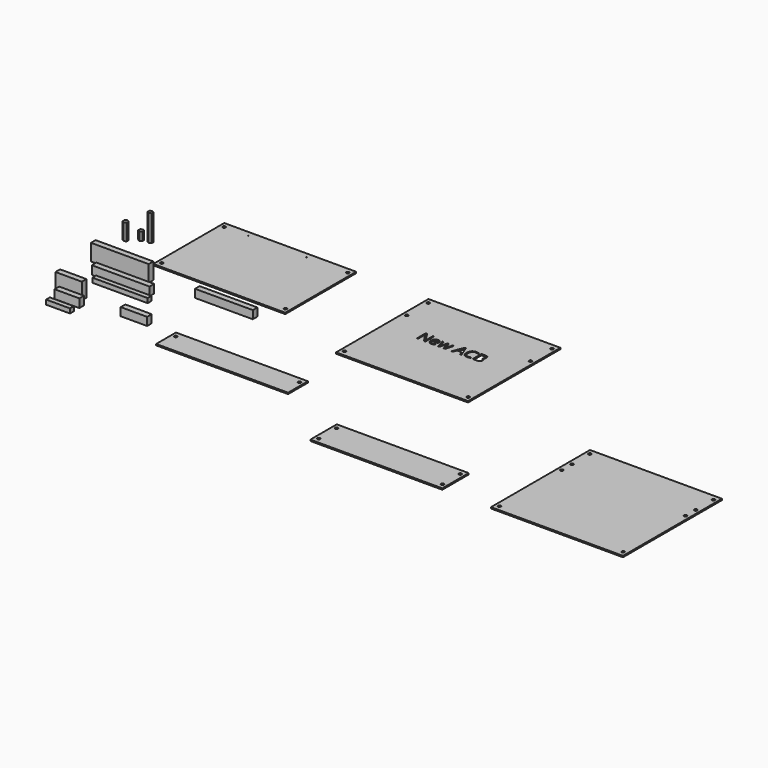
from build123d import *

# Parameters (mm, degrees)
F0_W      = 160
F0_H      = 107.5
F0_R      = 0.5
F1_DEPTH  = 1.6
F2_D      = 3.5
F3_W      = 70
F3_H      = 7
F4_DEPTH  = 20
F5_W      = 70
F5_H      = 7
F6_DEPTH  = 10.4
F7_W      = 67
F7_H      = 5.7
F8_DEPTH  = 5.5
F9_W      = 70
F9_H      = 7
F10_DEPTH = 9.8
F11_W     = 32
F11_H     = 7
F12_DEPTH = 20
F13_W     = 30
F13_H     = 7
F14_DEPTH = 10.4
F15_W     = 29
F15_H     = 5.7
F16_DEPTH = 5.5
F17_W     = 32
F17_H     = 7
F18_DEPTH = 9.8
F20_DEPTH = 20
F21_W     = 160
F21_H     = 30
F21_R     = 1.75
F22_DEPTH = 1.6
F23_W     = 160
F23_H     = 140
F23_R     = 1.75
F24_DEPTH = 1.6
F26_DEPTH = 10
F28_DEPTH = 32
F29_W     = 160
F29_H     = 40
F29_R     = 1.75
F31_DEPTH = 1.6
F30_W     = 160
F30_H     = 150
F30_R     = 1.75
F32_DEPTH = 1.6


with BuildPart() as f1:
    # F0 (on Top) → F1 (new body)
    with BuildSketch(Plane.XY):
        with Locations((80, 53.75)):
            Rectangle(F0_W, F0_H)
        with Locations((34.275, 101)):
            Circle(F0_R, mode=Mode.SUBTRACT)
        with Locations((104.775, 101)):
            Circle(F0_R, mode=Mode.SUBTRACT)
    extrude(amount=F1_DEPTH)

    # F2 (through all)
    with Locations(Plane(origin=(0, 0, 0), x_dir=(1, 0, 0), z_dir=(0, 0, -1))):
        with Locations((5, -101), (155, -101), (155, -6.5), (5, -6.5)):
            Hole(F2_D / 2)


with BuildPart() as f4:
    # F3 (on Top) → F4 (new body)
    with BuildSketch(Plane.XY):
        with Locations((-16.0939775687, -27.1400371566)):
            Rectangle(F3_W, F3_H)
    extrude(amount=F4_DEPTH)


with BuildPart() as f6:
    # F5 (on Top) → F6 (new body)
    with BuildSketch(Plane.XY):
        with Locations((1.7421445296, -48.1625366956)):
            Rectangle(F5_W, F5_H)
    extrude(amount=F6_DEPTH)


with BuildPart() as f8:
    # F7 (on Top) → F8 (new body)
    with BuildSketch(Plane.XY):
        with Locations((10.7092835508, -61.0287673771)):
            Rectangle(F7_W, F7_H)
    extrude(amount=F8_DEPTH)


with BuildPart() as f10:
    # F9 (on Top) → F10 (new body)
    with BuildSketch(Plane.XY):
        with Locations((107.5625554097, -23.9234799519)):
            Rectangle(F9_W, F9_H)
    extrude(amount=F10_DEPTH)


with BuildPart() as f12:
    # F11 (on Top) → F12 (new body)
    with BuildSketch(Plane.XY):
        with Locations((-23.9963108364, -94.9174948037)):
            Rectangle(F11_W, F11_H)
    extrude(amount=F12_DEPTH)


with BuildPart() as f14:
    # F13 (on Top) → F14 (new body)
    with BuildSketch(Plane.XY):
        with Locations((-15, -108.6432483196)):
            Rectangle(F13_W, F13_H)
    extrude(amount=F14_DEPTH)


with BuildPart() as f16:
    # F15 (on Top) → F16 (new body)
    with BuildSketch(Plane.XY):
        with Locations((-14.5, -123.4859487057)):
            Rectangle(F15_W, F15_H)
    extrude(amount=F16_DEPTH)


with BuildPart() as f18:
    # F17 (on Top) → F18 (new body)
    with BuildSketch(Plane.XY):
        with Locations((57.0341287478, -97.2132757306)):
            Rectangle(F17_W, F17_H)
    extrude(amount=F18_DEPTH)


with BuildPart() as f20:
    # F19 (on Top) → F20 (new body)
    with BuildSketch(Plane.XY):
        Polygon((-50.3638529029, 25.6252197895), (-52.815556545, 27.149189141), (-55.3612045391, 25.7879361801), (-55.455148891, 22.9027138677), (-53.0034452489, 21.3787445162), (-50.4577972548, 22.7399974771), align=None)
    extrude(amount=F20_DEPTH)


with BuildPart() as f22:
    # F21 (on Top) → F22 (new body)
    with BuildSketch(Plane.XY):
        with Locations((184.6012100577, -111.4463090748)):
            Rectangle(F21_W, F21_H)
        with Locations((109.6012100577, -102.9463090748)):
            Circle(F21_R, mode=Mode.SUBTRACT)
        with Locations((259.6012100577, -102.9463090748)):
            Circle(F21_R, mode=Mode.SUBTRACT)
    extrude(amount=F22_DEPTH)


with BuildPart() as f24:
    # F23 (on Top) → F24 (new body)
    with BuildSketch(Plane.XY):
        with Locations((328.4113079536, 36.5902520716)):
            Rectangle(F23_W, F23_H)
        with Locations((253.4113079536, -26.9097479284)):
            Circle(F23_R, mode=Mode.SUBTRACT)
        with Locations((403.4113079536, -26.9097479284)):
            Circle(F23_R, mode=Mode.SUBTRACT)
        with Locations((253.4113079536, 67.5902520716)):
            Circle(F23_R, mode=Mode.SUBTRACT)
        with BuildLine():
            Line((300.6859295811, 49.9915973276), (300.6859295811, 36.6290178146))
            Line((300.6859295811, 36.6290178146), (298.9136110902, 36.6290178146))
            Line((298.9136110902, 36.6290178146), (291.6108400147, 47.8420031183))
            Line((291.6108400147, 47.8420031183), (291.5377245654, 47.8420031183))
            add(Edge.make_bspline(
                [(291.5377245654, 47.8420031183), (291.683955464, 45.8678859874), (291.683955464, 44.2242506873)],
                knots=[0, 0, 0, 1, 1, 1], degree=2))
            Line((291.683955464, 44.2242506873), (291.683955464, 36.6290178146))
            Line((291.683955464, 36.6290178146), (290.2479680399, 36.6290178146))
            Line((290.2479680399, 36.6290178146), (290.2479680399, 49.9915973276))
            Line((290.2479680399, 49.9915973276), (292.0027388229, 49.9915973276))
            Line((292.0027388229, 49.9915973276), (299.2879621906, 38.8224812934))
            Line((299.2879621906, 38.8224812934), (299.3610776399, 38.8224812934))
            add(Edge.make_bspline(
                [(299.3610776399, 38.8224812934), (299.3435299321, 39.068149203), (299.2791883367, 40.4076242341)],
                knots=[0, 0, 0, 1, 1, 1], degree=2))
            add(Edge.make_bspline(
                [(299.2791883367, 40.4076242341), (299.2148467413, 41.7470992652), (299.2323944492, 42.3232490056)],
                knots=[0, 0, 0, 1, 1, 1], degree=2))
            Line((299.2323944492, 42.3232490056), (299.2323944492, 49.9915973276))
            Line((299.2323944492, 49.9915973276), (300.6859295811, 49.9915973276))
        make_face(mode=Mode.SUBTRACT)
        with BuildLine():
            add(Edge.make_bspline(
                [(310.0944255963, 36.5968470169), (309.3778941933, 36.4447668823), (308.363051757, 36.4447668823)],
                knots=[0, 0, 0, 1, 1, 1], degree=2))
            add(Edge.make_bspline(
                [(308.363051757, 36.4447668823), (306.1432667165, 36.4447668823), (304.8578971179, 37.7988650033)],
                knots=[0, 0, 0, 1, 1, 1], degree=2))
            add(Edge.make_bspline(
                [(304.8578971179, 37.7988650033), (303.5725275193, 39.1529631242), (303.5725275193, 41.554074479)],
                knots=[0, 0, 0, 1, 1, 1], degree=2))
            add(Edge.make_bspline(
                [(303.5725275193, 41.554074479), (303.5725275193, 43.9785827776), (304.7657716518, 45.4043340389)],
                knots=[0, 0, 0, 1, 1, 1], degree=2))
            add(Edge.make_bspline(
                [(304.7657716518, 45.4043340389), (305.9590157842, 46.8300853001), (307.9711529488, 46.8300853001)],
                knots=[0, 0, 0, 1, 1, 1], degree=2))
            add(Edge.make_bspline(
                [(307.9711529488, 46.8300853001), (309.8516823047, 46.8300853001), (310.9484140441, 45.5915095891)],
                knots=[0, 0, 0, 1, 1, 1], degree=2))
            add(Edge.make_bspline(
                [(310.9484140441, 45.5915095891), (312.0451457835, 44.352933878), (312.0451457835, 42.3232490056)],
                knots=[0, 0, 0, 1, 1, 1], degree=2))
            Line((312.0451457835, 42.3232490056), (312.0451457835, 41.3639743109))
            Line((312.0451457835, 41.3639743109), (305.1459719881, 41.3639743109))
            add(Edge.make_bspline(
                [(305.1459719881, 41.3639743109), (305.1927658756, 39.6004296739), (306.0379804695, 38.6864865577)],
                knots=[0, 0, 0, 1, 1, 1], degree=2))
            add(Edge.make_bspline(
                [(306.0379804695, 38.6864865577), (306.8831950633, 37.7725434415), (308.4186194985, 37.7725434415)],
                knots=[0, 0, 0, 1, 1, 1], degree=2))
            add(Edge.make_bspline(
                [(308.4186194985, 37.7725434415), (310.0359332369, 37.7725434415), (311.6152269417, 38.448130193)],
                knots=[0, 0, 0, 1, 1, 1], degree=2))
            Line((311.6152269417, 38.448130193), (311.6152269417, 37.0940320721))
            add(Edge.make_bspline(
                [(311.6152269417, 37.0940320721), (310.8109569994, 36.7489271514), (310.0944255963, 36.5968470169)],
                knots=[0, 0, 0, 1, 1, 1], degree=2))
        make_face(mode=Mode.SUBTRACT)
        with BuildLine():
            Line((324.6151538262, 36.6290178146), (322.8135891556, 36.6290178146))
            Line((322.8135891556, 36.6290178146), (320.9769290693, 42.5045753199))
            add(Edge.make_bspline(
                [(320.9769290693, 42.5045753199), (320.801451991, 43.0456296446), (320.3276638796, 44.9554051802)],
                knots=[0, 0, 0, 1, 1, 1], degree=2))
            Line((320.3276638796, 44.9554051802), (320.2545484303, 44.9554051802))
            add(Edge.make_bspline(
                [(320.2545484303, 44.9554051802), (319.8889711838, 43.3556391496), (319.6140570945, 42.487027612)],
                knots=[0, 0, 0, 1, 1, 1], degree=2))
            Line((319.6140570945, 42.487027612), (317.7218292667, 36.6290178146))
            Line((317.7218292667, 36.6290178146), (315.9670584837, 36.6290178146))
            Line((315.9670584837, 36.6290178146), (313.235465298, 46.6458343679))
            Line((313.235465298, 46.6458343679), (314.8264574747, 46.6458343679))
            add(Edge.make_bspline(
                [(314.8264574747, 46.6458343679), (315.7945060233, 42.8701525663), (316.3019272414, 40.8960354354)],
                knots=[0, 0, 0, 1, 1, 1], degree=2))
            add(Edge.make_bspline(
                [(316.3019272414, 40.8960354354), (316.8093484595, 38.9219183044), (316.8824639088, 38.237557699)],
                knots=[0, 0, 0, 1, 1, 1], degree=2))
            Line((316.8824639088, 38.237557699), (316.9555793581, 38.237557699))
            add(Edge.make_bspline(
                [(316.9555793581, 38.237557699), (317.0550163692, 38.758139698), (317.278749644, 39.585806584)],
                knots=[0, 0, 0, 1, 1, 1], degree=2))
            add(Edge.make_bspline(
                [(317.278749644, 39.585806584), (317.5024829188, 40.41347347), (317.6691861432, 40.8960354354)],
                knots=[0, 0, 0, 1, 1, 1], degree=2))
            Line((317.6691861432, 40.8960354354), (319.5058462295, 46.6458343679))
            Line((319.5058462295, 46.6458343679), (321.1494815297, 46.6458343679))
            Line((321.1494815297, 46.6458343679), (322.9422723464, 40.8960354354))
            add(Edge.make_bspline(
                [(322.9422723464, 40.8960354354), (323.4540804914, 39.3255155845), (323.6354068057, 38.2551054069)],
                knots=[0, 0, 0, 1, 1, 1], degree=2))
            Line((323.6354068057, 38.2551054069), (323.708522255, 38.2551054069))
            add(Edge.make_bspline(
                [(323.708522255, 38.2551054069), (323.7465422886, 38.5855872377), (323.9059339681, 39.2714101521)],
                knots=[0, 0, 0, 1, 1, 1], degree=2))
            add(Edge.make_bspline(
                [(323.9059339681, 39.2714101521), (324.0653256475, 39.9572330664), (325.8113225767, 46.6458343679)],
                knots=[0, 0, 0, 1, 1, 1], degree=2))
            Line((325.8113225767, 46.6458343679), (327.3818424275, 46.6458343679))
            Line((327.3818424275, 46.6458343679), (324.6151538262, 36.6290178146))
        make_face(mode=Mode.SUBTRACT)
        with Locations((253.4113079536, 100.0902520716)):
            Circle(F23_R, mode=Mode.SUBTRACT)
        Polygon((344.2919835403, 36.6290178146), (342.6834436559, 36.6290178146), (341.0193360299, 40.8784877275), (335.6643605236, 40.8784877275), (334.0207252234, 36.6290178146), (332.4472807546, 36.6290178146), (337.7291408117, 50.0471650691), (339.036445045, 50.0471650691), align=None, mode=Mode.SUBTRACT)
        with BuildLine():
            add(Edge.make_bspline(
                [(354.8849498341, 48.081821792), (353.3670731068, 48.7925039592), (351.8491963794, 48.7925039592)],
                knots=[0, 0, 0, 1, 1, 1], degree=2))
            add(Edge.make_bspline(
                [(351.8491963794, 48.7925039592), (349.6469590467, 48.7925039592), (348.371825611, 47.3258080463)],
                knots=[0, 0, 0, 1, 1, 1], degree=2))
            add(Edge.make_bspline(
                [(348.371825611, 47.3258080463), (347.0966921753, 45.8591121335), (347.0966921753, 43.3088452621)],
                knots=[0, 0, 0, 1, 1, 1], degree=2))
            add(Edge.make_bspline(
                [(347.0966921753, 43.3088452621), (347.0966921753, 40.6883875594), (348.3264940324, 39.2567870622)],
                knots=[0, 0, 0, 1, 1, 1], degree=2))
            add(Edge.make_bspline(
                [(348.3264940324, 39.2567870622), (349.5562958895, 37.825186565), (351.8316486716, 37.825186565)],
                knots=[0, 0, 0, 1, 1, 1], degree=2))
            add(Edge.make_bspline(
                [(351.8316486716, 37.825186565), (353.2296160621, 37.825186565), (355.0224068788, 38.3282208562)],
                knots=[0, 0, 0, 1, 1, 1], degree=2))
            Line((355.0224068788, 38.3282208562), (355.0224068788, 36.9682734993))
            add(Edge.make_bspline(
                [(355.0224068788, 36.9682734993), (353.6332133422, 36.4447668823), (351.5947546159, 36.4447668823)],
                knots=[0, 0, 0, 1, 1, 1], degree=2))
            add(Edge.make_bspline(
                [(351.5947546159, 36.4447668823), (348.6438150823, 36.4447668823), (347.0396621248, 38.237557699)],
                knots=[0, 0, 0, 1, 1, 1], degree=2))
            add(Edge.make_bspline(
                [(347.0396621248, 38.237557699), (345.4355091673, 40.0303485157), (345.4355091673, 43.3293175879)],
                knots=[0, 0, 0, 1, 1, 1], degree=2))
            add(Edge.make_bspline(
                [(345.4355091673, 43.3293175879), (345.4355091673, 45.394097876), (346.2076083118, 46.947070019)],
                knots=[0, 0, 0, 1, 1, 1], degree=2))
            add(Edge.make_bspline(
                [(346.2076083118, 46.947070019), (346.9797074564, 48.500042162), (348.4376295153, 49.3408698289)],
                knots=[0, 0, 0, 1, 1, 1], degree=2))
            add(Edge.make_bspline(
                [(348.4376295153, 49.3408698289), (349.8955515743, 50.1816974958), (351.8696687052, 50.1816974958)],
                knots=[0, 0, 0, 1, 1, 1], degree=2))
            add(Edge.make_bspline(
                [(351.8696687052, 50.1816974958), (353.9695444089, 50.1816974958), (355.5429888778, 49.4154475872)],
                knots=[0, 0, 0, 1, 1, 1], degree=2))
            Line((355.5429888778, 49.4154475872), (354.8849498341, 48.081821792))
        make_face(mode=Mode.SUBTRACT)
        with BuildLine():
            Line((357.9382509966, 36.6290178146), (357.9382509966, 49.9915973276))
            Line((357.9382509966, 49.9915973276), (361.7139327982, 49.9915973276))
            add(Edge.make_bspline(
                [(361.7139327982, 49.9915973276), (364.3724105346, 49.9915973276), (365.5612677401, 49.1961012393)],
                knots=[0, 0, 0, 1, 1, 1], degree=2))
            add(Edge.make_bspline(
                [(365.5612677401, 49.1961012393), (366.7501249456, 48.400605151), (366.7501249456, 46.6838544015)],
                knots=[0, 0, 0, 1, 1, 1], degree=2))
            add(Edge.make_bspline(
                [(366.7501249456, 46.6838544015), (366.7501249456, 45.493534887), (366.087698975, 44.7214357425)],
                knots=[0, 0, 0, 1, 1, 1], degree=2))
            add(Edge.make_bspline(
                [(366.087698975, 44.7214357425), (365.4252730044, 43.9493365979), (364.1530641867, 43.7212163961)],
                knots=[0, 0, 0, 1, 1, 1], degree=2))
            Line((364.1530641867, 43.7212163961), (364.1530641867, 43.630553239))
            add(Edge.make_bspline(
                [(364.1530641867, 43.630553239), (367.1975914953, 43.10997124), (367.1975914953, 40.4310211779)],
                knots=[0, 0, 0, 1, 1, 1], degree=2))
            add(Edge.make_bspline(
                [(367.1975914953, 40.4310211779), (367.1975914953, 38.6411549791), (365.986799655, 37.6350863968)],
                knots=[0, 0, 0, 1, 1, 1], degree=2))
            add(Edge.make_bspline(
                [(365.986799655, 37.6350863968), (364.7760078147, 36.6290178146), (362.6000920437, 36.6290178146)],
                knots=[0, 0, 0, 1, 1, 1], degree=2))
            Line((362.6000920437, 36.6290178146), (357.9382509966, 36.6290178146))
        make_face(mode=Mode.SUBTRACT)
        with Locations((403.4113079536, 67.5902520716)):
            Circle(F23_R, mode=Mode.SUBTRACT)
        with Locations((403.4113079536, 100.0902520716)):
            Circle(F23_R, mode=Mode.SUBTRACT)
    extrude(amount=F24_DEPTH)


with BuildPart() as f26:
    # F25 (on Top) → F26 (new body)
    with BuildSketch(Plane.XY):
        Polygon((-41.7578315576, 30.9134710241), (-39.2462941976, 32.3366763581), (-39.2230574918, 35.2233341814), (-41.7113581459, 36.6867866707), (-44.2228955058, 35.2635813366), (-44.2461322117, 32.3769235133), align=None)
    extrude(amount=F26_DEPTH)


with BuildPart() as f28:
    # F27 (on Top) → F28 (new body)
    with BuildSketch(Plane.XY):
        Polygon((-32.1216009738, 33.0177766992), (-29.6297925152, 34.4752484618), (-29.6460958575, 37.3619537696), (-32.1542076586, 38.7911873149), (-34.6460161172, 37.3337155523), (-34.6297127748, 34.4470102444), align=None)
    extrude(amount=F28_DEPTH)


with BuildPart() as f31:
    # F29 (on Top) → F31 (new body)
    with BuildSketch(Plane.XY):
        with Locations((421.1595952511, -168.3685094437)):
            Rectangle(F29_W, F29_H)
        with Locations((346.1595952511, -181.8685094437)):
            Circle(F29_R, mode=Mode.SUBTRACT)
        with Locations((496.1595952511, -181.8685094437)):
            Circle(F29_R, mode=Mode.SUBTRACT)
        with Locations((346.1595952511, -154.8685094437)):
            Circle(F29_R, mode=Mode.SUBTRACT)
        with Locations((496.1595952511, -154.8685094437)):
            Circle(F29_R, mode=Mode.SUBTRACT)
    extrude(amount=F31_DEPTH)


with BuildPart() as f32:
    # F30 (on Top) → F32 (new body)
    with BuildSketch(Plane.XY):
        with Locations((641.2979960442, -114.6227126732)):
            Rectangle(F30_W, F30_H)
        with Locations((566.2979960442, -183.1227126732)):
            Circle(F30_R, mode=Mode.SUBTRACT)
        with Locations((716.2979960442, -183.1227126732)):
            Circle(F30_R, mode=Mode.SUBTRACT)
        with Locations((566.2979960442, -88.6227126732)):
            Circle(F30_R, mode=Mode.SUBTRACT)
        with Locations((566.2979960442, -73.1227126732)):
            Circle(F30_R, mode=Mode.SUBTRACT)
        with Locations((566.2979960442, -46.1227126732)):
            Circle(F30_R, mode=Mode.SUBTRACT)
        with Locations((716.2979960442, -88.6227126732)):
            Circle(F30_R, mode=Mode.SUBTRACT)
        with Locations((716.2979960442, -73.1227126732)):
            Circle(F30_R, mode=Mode.SUBTRACT)
        with Locations((716.2979960442, -46.1227126732)):
            Circle(F30_R, mode=Mode.SUBTRACT)
    extrude(amount=F32_DEPTH)


solid = Compound([f1.part, f4.part, f6.part, f8.part, f10.part, f12.part, f14.part, f16.part, f18.part, f20.part, f22.part, f24.part, f26.part, f28.part, f31.part, f32.part])
